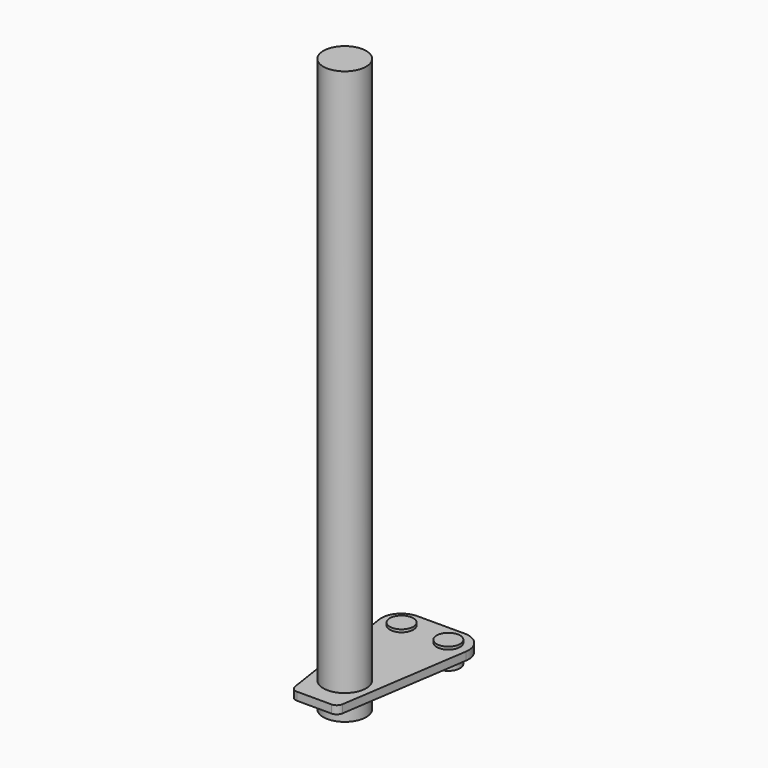
from build123d import *

# Parameters (mm, degrees)
F2_DEPTH = 6
F0_R     = 16
F3_DEPTH = 415.3325557709
F0_R_2   = 8.745861022
F4_DEPTH = 8
F5_DEPTH = 13


with BuildPart() as f2:
    # F1 (on Top) → F2 (new body)
    with BuildSketch(Plane.XY):
        with BuildLine():
            Line((-12.8886751705, -28.5254933068), (0, -28.5254933068))
            Line((0, -28.5254933068), (12.8886751705, -28.5254933068))
            ThreePointArc((12.8886751705, -28.5254933068), (16.1500065629, -27.3154428512), (17.8327877404, -24.2709803264))
            Line((17.8327877404, -24.2709803264), (32.4659266708, 72.7768343533))
            ThreePointArc((32.4659266708, 72.7768343533), (29.0034375943, 84.7972895893), (17.6335889612, 90.0132954121))
            Line((17.6335889612, 90.0132954121), (0, 90.0132954121))
            Line((0, 90.0132954121), (-17.6335889612, 90.0132954121))
            ThreePointArc((-17.6335889612, 90.0132954121), (-29.0034375943, 84.7972895893), (-32.4659266708, 72.7768343533))
            Line((-32.4659266708, 72.7768343533), (-17.8327877404, -24.2709803264))
            ThreePointArc((-17.8327877404, -24.2709803264), (-16.1500065629, -27.3154428512), (-12.8886751705, -28.5254933068))
        make_face()
    extrude(amount=F2_DEPTH)

    # F0 (on Top) → F3 (join)
    with BuildSketch(Plane.XY):
        Circle(F0_R)
    extrude(amount=F3_DEPTH)

    # F0 (on Top) → F4 (join, symmetric)
    with BuildSketch(Plane.XY):
        with Locations((17.5, 75)):
            Circle(F0_R_2)
        with Locations((-17.5, 75)):
            Circle(F0_R_2)
    extrude(amount=F4_DEPTH, both=True)

    # F0 (on Top) → F5 (join)
    with BuildSketch(Plane.XY):
        Circle(F0_R)
    extrude(amount=-F5_DEPTH)


solid = f2.part
